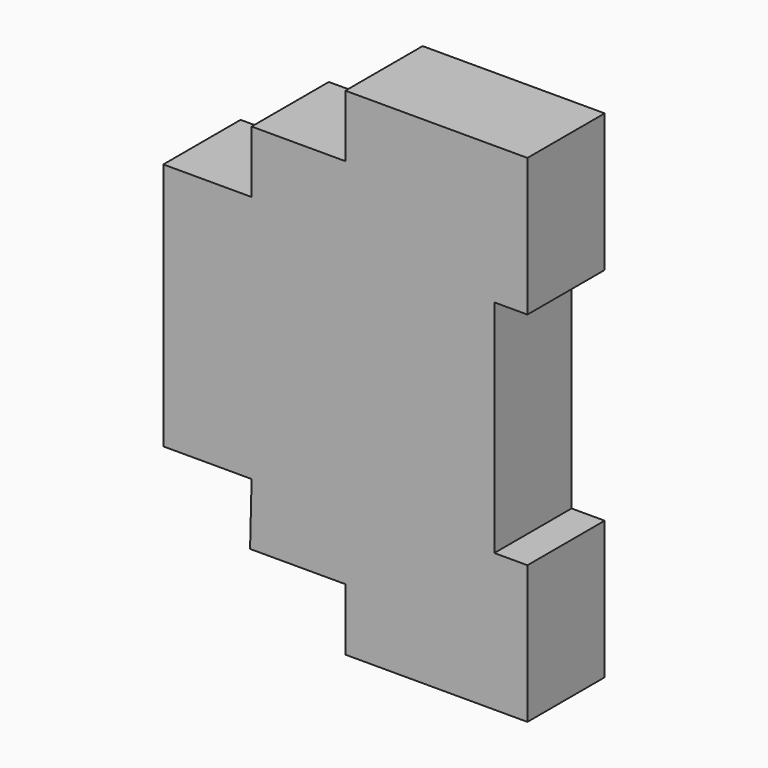
from build123d import *

# Parameters (mm, degrees)
F1_DEPTH  = 17.5
F2_R      = 2.25021
F2_R_2    = 2.117892
F2_R_3    = 2.141219
F2_R_4    = 1.925027
F2_R_5    = 3.371511
F2_R_6    = 3.105781
F2_R_7    = 1.98861
F2_R_8    = 1.899979
F2_R_9    = 1.912547
F3_DEPTH  = 40
F4_R      = 2.117892
F4_R_2    = 2.25021
F5_DEPTH  = 5
F6_R      = 2.141219
F6_R_2    = 1.925027
F7_DEPTH  = 3
F9_DEPTH  = 3
F10_W     = 16.805832
F10_H     = 44.291496
F10_R     = 3.105781
F10_R_2   = 3.371511
F11_DEPTH = 2
F12_R     = 2.950074
F12_R_2   = 3.899051
F13_DEPTH = 25


with BuildPart() as f1:
    # F0 (on Front) → F1 (new body)
    with BuildSketch(Plane.XZ):
        Polygon((-29.036315, 123.591392), (-62.036315, 123.591392), (-62.036315, 112.341392), (-79.036315, 112.341392), (-79.036315, 101.091392), (-95.036315, 101.091392), (-95.036315, 56.091392), (-79.036315, 56.091392), (-79.313149, 44.841392), (-62.036315, 44.841392), (-62.036315, 33.591392), (-29.036315, 33.591392), (-29.036315, 58.591392), (-35.036315, 58.591392), (-35.036315, 98.591392), (-29.036315, 98.591392), align=None)
    extrude(amount=F1_DEPTH)

    # F2 (on face) → F3 (cut)
    with BuildSketch(Plane(origin=(-95.036315, 0, 0), x_dir=(0, -1, 0), z_dir=(-1, 0, 0))):
        with Locations((13.294209, 118.739031)):
            Circle(F2_R)
        with Locations((4.177382, 118.739031)):
            Circle(F2_R_2)
        with Locations((4.177382, 106.985271)):
            Circle(F2_R_3)
        with Locations((13.294209, 106.985271)):
            Circle(F2_R_4)
        with Locations((4.177382, 95.644102)):
            Circle(F2_R_5)
        with Locations((4.177382, 84.471688)):
            Circle(F2_R_6)
        with Locations((4.177382, 39.11674)):
            Circle(F2_R_7)
        with Locations((8.744364, 39.11674)):
            Circle(F2_R_8)
        with Locations((13.294209, 39.11674)):
            Circle(F2_R_9)
    extrude(amount=-F3_DEPTH, mode=Mode.SUBTRACT)

    # F4 (on face) → F5 (cut)
    with BuildSketch(Plane(origin=(-62.036315, 0, 0), x_dir=(0, -1, 0), z_dir=(-1, 0, 0))):
        with BuildLine():
            Line((13.491717, 121.922452), (4.209779, 121.922452))
            ThreePointArc((4.209779, 121.922452), (2.088459, 121.043773), (1.209779, 118.922452))
            Line((1.209779, 118.922452), (1.209779, 118.510082))
            ThreePointArc((1.209779, 118.510082), (2.088459, 116.388762), (4.209779, 115.510082))
            Line((4.209779, 115.510082), (13.491717, 115.510082))
            ThreePointArc((13.491717, 115.510082), (15.613037, 116.388762), (16.491717, 118.510082))
            Line((16.491717, 118.510082), (16.491717, 118.922452))
            ThreePointArc((16.491717, 118.922452), (15.613037, 121.043773), (13.491717, 121.922452))
        make_face()
        with Locations((4.177382, 118.739031)):
            Circle(F4_R, mode=Mode.SUBTRACT)
        with Locations((13.294209, 118.739031)):
            Circle(F4_R_2, mode=Mode.SUBTRACT)
    extrude(amount=-F5_DEPTH, mode=Mode.SUBTRACT)

    # F6 (on face) → F7 (cut)
    with BuildSketch(Plane(origin=(-79.036315, 0, 0), x_dir=(0, -1, 0), z_dir=(-1, 0, 0))):
        with BuildLine():
            Line((13.656557, 110.275699), (3.933159, 110.275699))
            ThreePointArc((3.933159, 110.275699), (1.811838, 109.397019), (0.933159, 107.275699))
            Line((0.933159, 107.275699), (0.933159, 106.589088))
            ThreePointArc((0.933159, 106.589088), (1.811838, 104.467767), (3.933159, 103.589088))
            Line((3.933159, 103.589088), (13.656557, 103.589088))
            ThreePointArc((13.656557, 103.589088), (15.777877, 104.467767), (16.656557, 106.589088))
            Line((16.656557, 106.589088), (16.656557, 107.275699))
            ThreePointArc((16.656557, 107.275699), (15.777877, 109.397019), (13.656557, 110.275699))
        make_face()
        with Locations((4.177382, 106.985271)):
            Circle(F6_R, mode=Mode.SUBTRACT)
        with Locations((13.294209, 106.985271)):
            Circle(F6_R_2, mode=Mode.SUBTRACT)
    extrude(amount=-F7_DEPTH, mode=Mode.SUBTRACT)

    # F8 (on face) → F9 (cut)
    with BuildSketch(Plane(origin=(-62.036315, 0, 0), x_dir=(0, -1, 0), z_dir=(-1, 0, 0))):
        with BuildLine():
            ThreePointArc((1.226484, 38.683788), (2.105164, 36.562468), (4.226484, 35.683788))
            Line((4.226484, 35.683788), (13.570151, 35.683788))
            ThreePointArc((13.570151, 35.683788), (15.691471, 36.562468), (16.570151, 38.683788))
            Line((16.570151, 38.683788), (16.570151, 39.214782))
            ThreePointArc((16.570151, 39.214782), (15.691471, 41.336103), (13.570151, 42.214782))
            Line((13.570151, 42.214782), (4.226484, 42.214782))
            ThreePointArc((4.226484, 42.214782), (2.105164, 41.336103), (1.226484, 39.214782))
            Line((1.226484, 39.214782), (1.226484, 38.683788))
        make_face()
    extrude(amount=-F9_DEPTH, mode=Mode.SUBTRACT)

    # F10 (on face) → F11 (cut)
    with BuildSketch(Plane(origin=(-95.036315, 0, 0), x_dir=(0, -1, 0), z_dir=(-1, 0, 0))):
        with Locations((8.686814, 78.51769)):
            Rectangle(F10_W, F10_H)
        with Locations((4.177382, 84.471688)):
            Circle(F10_R, mode=Mode.SUBTRACT)
        with Locations((4.177382, 95.644102)):
            Circle(F10_R_2, mode=Mode.SUBTRACT)
    extrude(amount=-F11_DEPTH, mode=Mode.SUBTRACT)

    # F12 (on face) → F13 (cut)
    with BuildSketch(Plane(origin=(-93.036315, 0, 0), x_dir=(0, -1, 0), z_dir=(-1, 0, 0))):
        with Locations((4.417871, 74.5501)):
            Circle(F12_R)
        with Locations((8.776497, 63.428089)):
            Circle(F12_R_2)
    extrude(amount=-F13_DEPTH, mode=Mode.SUBTRACT)


solid = f1.part
